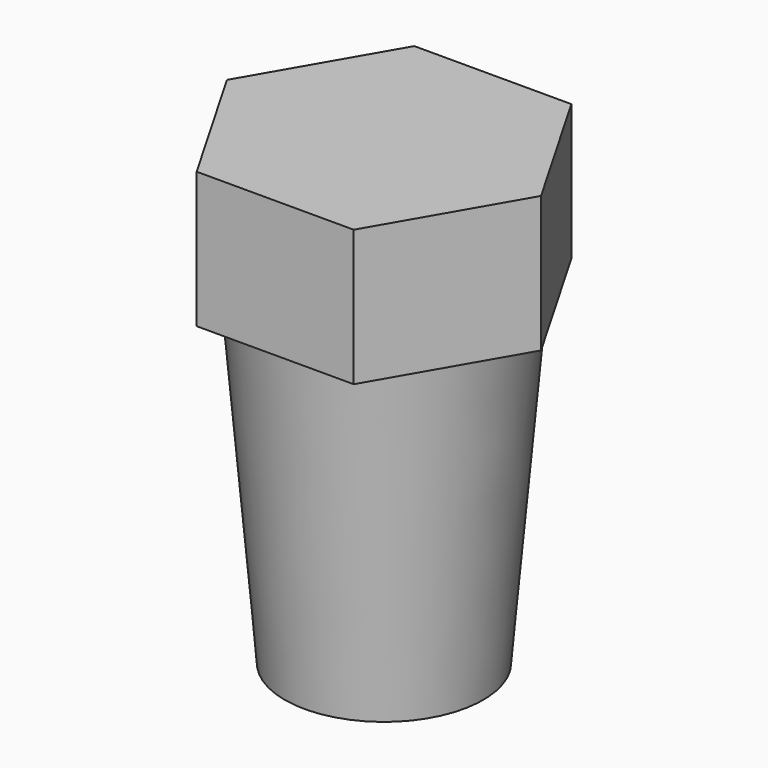
from build123d import *

# Parameters (mm, degrees)
F3_DEPTH = 25


with BuildPart() as f1:
    # F0 (on Front) → F1 (revolve)
    with BuildSketch(Plane.XZ):
        Polygon((-18.250227, 0), (0, 0), (0, 60), (-23.499547, 60), align=None)
    revolve(axis=Axis((0, 0, 72.624769), (0, 0, 1)))

    # F2 (on face) → F3 (join)
    with BuildSketch(Plane.XY.offset(60)):
        Polygon((-14.433757, 25), (-28.867513, 0), (-14.433757, -25), (14.433757, -25), (28.867513, 0), (14.433757, 25), align=None)
    extrude(amount=F3_DEPTH)


solid = f1.part
